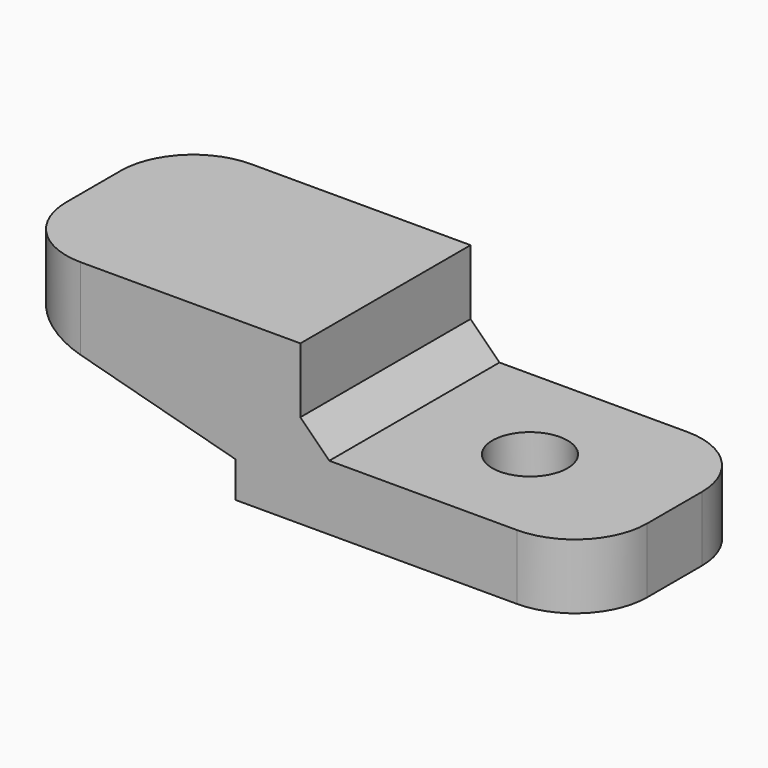
from build123d import *

# Parameters (mm, degrees)
F0_W     = 4.5
F0_H     = 2
F0_H_2   = 4.5
F0_W_2   = 20
F1_DEPTH = 7.36
F2_R     = 2.6
F3_DEPTH = 50
F4_SIZE2 = 4.0192378865
F4_SIZE  = 15
F5_R     = 5
F6_SIZE  = 2


with BuildPart() as f1:
    # F0 (on Front) → F1 (new body, symmetric)
    with BuildSketch(Plane.XZ):
        with Locations((2.25, 1)):
            Rectangle(F0_W, F0_H)
        with Locations((2.25, -2.25)):
            Rectangle(F0_W, F0_H_2)
        with Locations((14.5, -2.25)):
            Rectangle(F0_W_2, F0_H_2)
        Polygon((-15.7, 2), (0, 2), (4.5, 2), (4.5, 6.5), (-15.7, 6.5), align=None)
    extrude(amount=F1_DEPTH, both=True)

    # F2 (on face) → F3 (cut, symmetric)
    with BuildSketch(Plane.XY):
        with Locations((14.5, 0)):
            Circle(F2_R)
    extrude(amount=F3_DEPTH, both=True, mode=Mode.SUBTRACT)

    # F4
    f4_edges = [f1.edges().sort_by_distance(p)[0] for p in [
        (0, 0, 2),
    ]]
    f4_side = f1.faces().sort_by_distance((-7.85, 0, 2))[0]
    chamfer(f4_edges, length=F4_SIZE, length2=F4_SIZE2, reference=f4_side)

    # F5
    f5_edges = [f1.edges().sort_by_distance(p)[0] for p in [
        (-15.7, 7.36, 4.25),
        (-15.7, -7.36, 4.25),
        (24.5, 7.36, -2.25),
        (24.5, -7.36, -2.25),
    ]]
    fillet(f5_edges, radius=F5_R)

    # F6
    f6_edges = [f1.edges().sort_by_distance(p)[0] for p in [
        (4.5, 0, 0),
    ]]
    chamfer(f6_edges, length=F6_SIZE)


solid = f1.part
